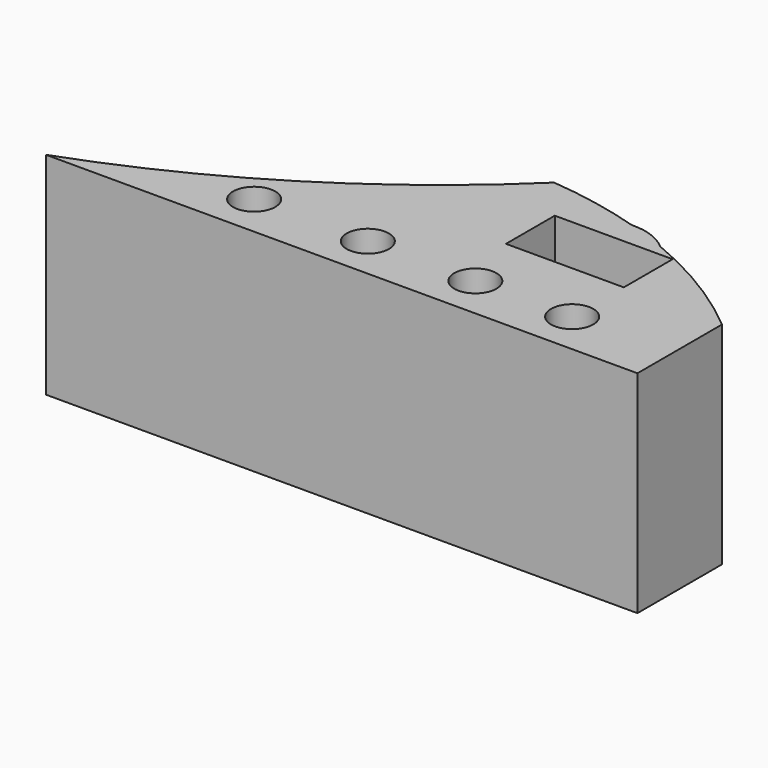
from build123d import *

# Parameters (mm, degrees)
F0_R     = 5
F1_DEPTH = 50
F2_DEPTH = 36.6
F3_R     = 4.8
F4_DEPTH = 2.7
F5_W     = 10.5
F5_H     = 10.5
F6_DEPTH = 40
F7_W     = 27.904123
F7_H     = 14.441377
F8_DEPTH = 25


with BuildPart() as f1:
    # F0 (on Top) → F1 (new body)
    with BuildSketch(Plane.XY):
        with BuildLine():
            ThreePointArc((134.282529, 6.80419), (96.779809, -22.438314), (53.993077, -43.19581))
            Line((53.993077, -43.19581), (193.993077, -43.19581))
            Line((193.993077, -43.19581), (193.993077, -18.19581))
            ThreePointArc((193.993077, -18.19581), (180.440706, -8.448382), (165.548028, -0.906017))
            ThreePointArc((165.548028, -0.906017), (168.901273, -5.468336), (170.088644, -11.004504))
            ThreePointArc((170.088644, -11.004504), (147.215011, -20.719698), (156.105681, 2.486854))
            ThreePointArc((156.105681, 2.486854), (145.305567, 5.208938), (134.282529, 6.80419))
        make_face()
        with Locations((95.127106, -33.044094)):
            Circle(F0_R, mode=Mode.SUBTRACT)
        with Locations((122.039258, -33.044094)):
            Circle(F0_R, mode=Mode.SUBTRACT)
        with Locations((147.4967, -33.044094)):
            Circle(F0_R, mode=Mode.SUBTRACT)
        with Locations((170.408398, -33.044094)):
            Circle(F0_R, mode=Mode.SUBTRACT)
        with BuildLine():
            ThreePointArc((165.548028, -0.906017), (161.153764, 1.700207), (156.105681, 2.486854))
            ThreePointArc((156.105681, 2.486854), (147.215011, -20.719698), (170.088644, -11.004504))
            ThreePointArc((170.088644, -11.004504), (168.901273, -5.468336), (165.548028, -0.906017))
        make_face()
    extrude(amount=F1_DEPTH)

    # F0 (on Top) → F2 (cut)
    with BuildSketch(Plane.XY):
        with BuildLine():
            ThreePointArc((165.548028, -0.906017), (161.153764, 1.700207), (156.105681, 2.486854))
            ThreePointArc((156.105681, 2.486854), (147.215011, -20.719698), (170.088644, -11.004504))
            ThreePointArc((170.088644, -11.004504), (168.901273, -5.468336), (165.548028, -0.906017))
        make_face()
    extrude(amount=F2_DEPTH, mode=Mode.SUBTRACT)

    # F3 (on face) → F4 (cut)
    with BuildSketch(Plane(origin=(0, 0, 36.6), x_dir=(1, 0, 0), z_dir=(0, 0, -1))):
        with Locations((156.588644, 11.004504)):
            Circle(F3_R)
    extrude(amount=-F4_DEPTH, mode=Mode.SUBTRACT)

    # F5 (on face) → F6 (cut)
    with BuildSketch(Plane.XY):
        with Locations((127.963409, -16.812982)):
            Rectangle(F5_W, F5_H)
    extrude(amount=F6_DEPTH, mode=Mode.SUBTRACT)

    # F7 (on face) → F8 (cut)
    with BuildSketch(Plane(origin=(0, 0, 36.6), x_dir=(1, 0, 0), z_dir=(0, 0, -1))):
        with Locations((156.589418, 10.691026)):
            Rectangle(F7_W, F7_H)
    extrude(amount=-F8_DEPTH, mode=Mode.SUBTRACT)


solid = f1.part
